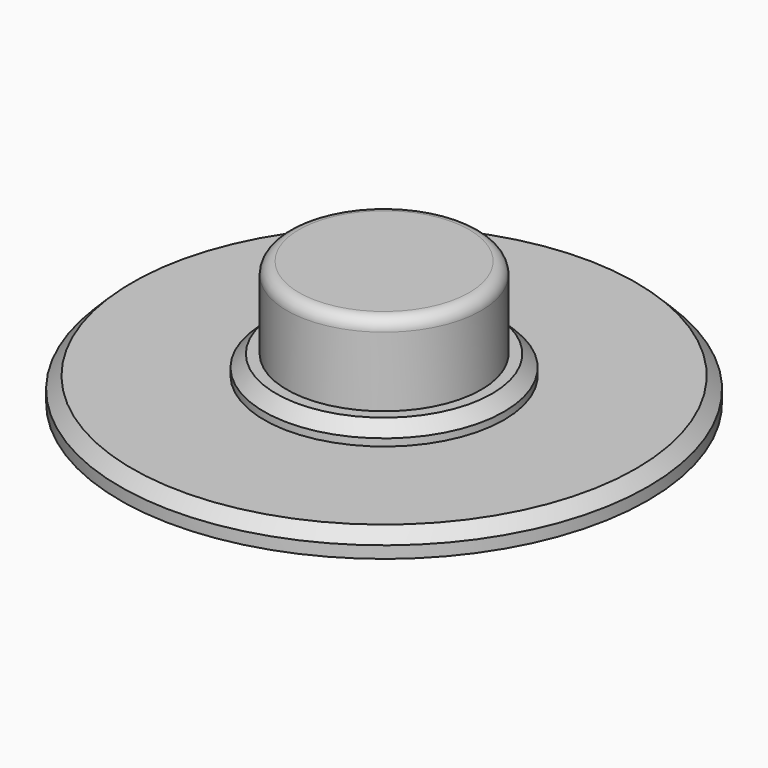
from build123d import *

# Parameters (mm, degrees)
F0_R     = 11
F0_R_2   = 5
F1_DEPTH = 1
F2_SIZE  = 0.5
F0_R_3   = 4.05
F3_DEPTH = 1.8
F4_DEPTH = 5.2
F5_R     = 0.5
F6_SIZE  = 0.5


with BuildPart() as f1:
    # F0 (on Top) → F1 (new body)
    with BuildSketch(Plane.XY):
        Circle(F0_R)
        Circle(F0_R_2, mode=Mode.SUBTRACT)
    extrude(amount=F1_DEPTH)

    # F2
    f2_edges = [f1.edges().sort_by_distance(p)[0] for p in [
        (-11, 0, 1),
    ]]
    chamfer(f2_edges, length=F2_SIZE)

    # F0 (on Top) → F3 (join)
    with BuildSketch(Plane.XY):
        Circle(F0_R_2)
        Circle(F0_R_3, mode=Mode.SUBTRACT)
    extrude(amount=F3_DEPTH)

    # F0 (on Top) → F4 (join)
    with BuildSketch(Plane.XY):
        Circle(F0_R_3)
    extrude(amount=F4_DEPTH)

    # F5
    f5_edges = [f1.edges().sort_by_distance(p)[0] for p in [
        (-4.05, 0, 5.2),
    ]]
    fillet(f5_edges, radius=F5_R)

    # F6
    f6_edges = [f1.edges().sort_by_distance(p)[0] for p in [
        (-5, 0, 1.8),
    ]]
    chamfer(f6_edges, length=F6_SIZE)


solid = f1.part
